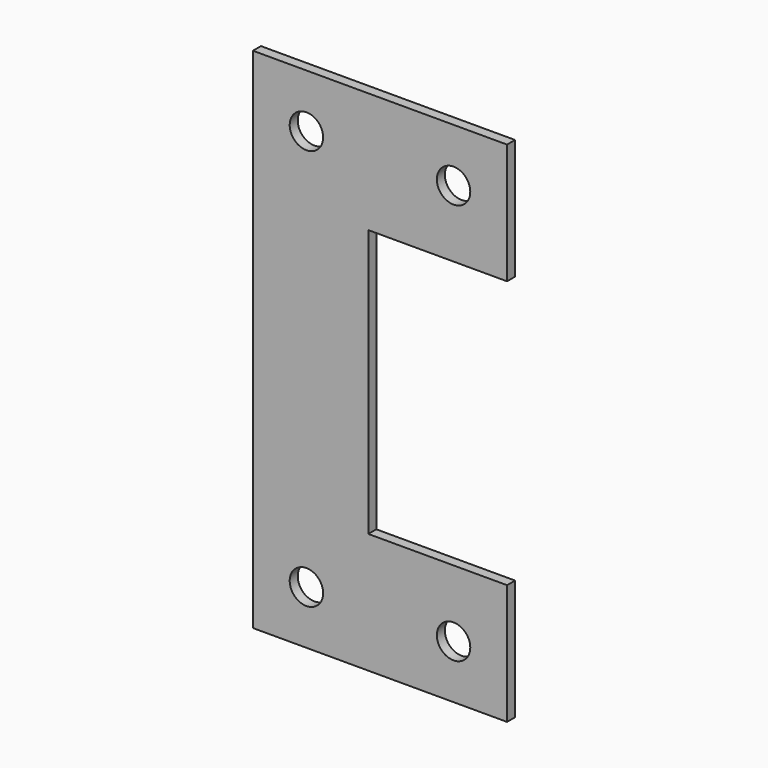
from build123d import *

# Parameters (mm, degrees)
F0_R     = 2.5
F1_DEPTH = 1.5


with BuildPart() as f1:
    # F0 (on Front) → F1 (new body)
    with BuildSketch(Plane.XZ):
        Polygon((19, 20), (19, 38), (-19, 38), (-19, -38), (19, -38), (19, -20), (1.75, -20), (-1.75, -20), (-1.75, 20), (1.75, 20), align=None)
        with Locations((-11, -30)):
            Circle(F0_R, mode=Mode.SUBTRACT)
        with Locations((11, -30)):
            Circle(F0_R, mode=Mode.SUBTRACT)
        with Locations((-11, 30)):
            Circle(F0_R, mode=Mode.SUBTRACT)
        with Locations((11, 30)):
            Circle(F0_R, mode=Mode.SUBTRACT)
    extrude(amount=F1_DEPTH)


solid = f1.part
